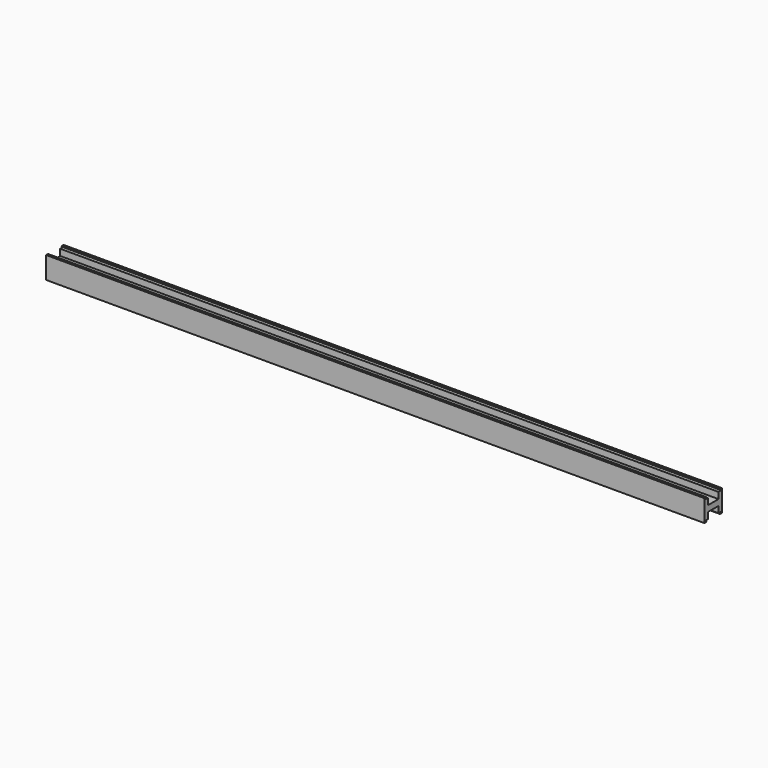
from build123d import *

# Parameters (mm, degrees)
F0_W     = 50
F0_H     = 50
F1_DEPTH = 1500
F2_W     = 30.287463218
F2_H     = 14.4808968701
F2_W_2   = 39.2215898418
F2_H_2   = 1.1514374092
F2_H_3   = 1.3798842891
F3_DEPTH = 1500.001


with BuildPart() as f1:
    # F0 (on Right) → F1 (new body)
    with BuildSketch(Plane.YZ):
        Rectangle(F0_W, F0_H)
        Rectangle(F0_W, F0_H)
    extrude(amount=F1_DEPTH)

    # F2 (on face) → F3 (cut, through all)
    with BuildSketch(Plane(origin=(0, 0, 0), x_dir=(0, -1, 0), z_dir=(-1, 0, 0))):
        with Locations((0, 14.0767924573)):
            Rectangle(F2_W, F2_H)
        Polygon((19.6107949209, 23.6201157109), (19.6107949209, 22.4686783016), (-19.6107949209, 22.4686783016), (-19.6107949209, 23.6201157109), (-23.3770003208, 23.6201157109), (-23.3770003208, 21.3172408924), (-15.143731609, 21.3172408924), (15.143731609, 21.3172408924), (23.3770003208, 21.3172408924), (23.3770003208, 23.6201157109), align=None)
        with Locations((0, 23.0443970062)):
            Rectangle(F2_W_2, F2_H_2)
        with Locations((0, 24.3100578554)):
            Rectangle(F2_W_2, F2_H_3)
        with Locations((0, -24.3100578554)):
            Rectangle(F2_W_2, F2_H_3)
        with Locations((0, -23.0443970062)):
            Rectangle(F2_W_2, F2_H_2)
        Polygon((19.6107949209, -22.4686783016), (19.6107949209, -23.6201157109), (23.3770003208, -23.6201157109), (23.3770003208, -21.3172408924), (15.143731609, -21.3172408924), (-15.143731609, -21.3172408924), (-23.3770003208, -21.3172408924), (-23.3770003208, -23.6201157109), (-19.6107949209, -23.6201157109), (-19.6107949209, -22.4686783016), align=None)
        with Locations((0, -14.0767924573)):
            Rectangle(F2_W, F2_H)
    extrude(amount=-F3_DEPTH, mode=Mode.SUBTRACT)


solid = f1.part
